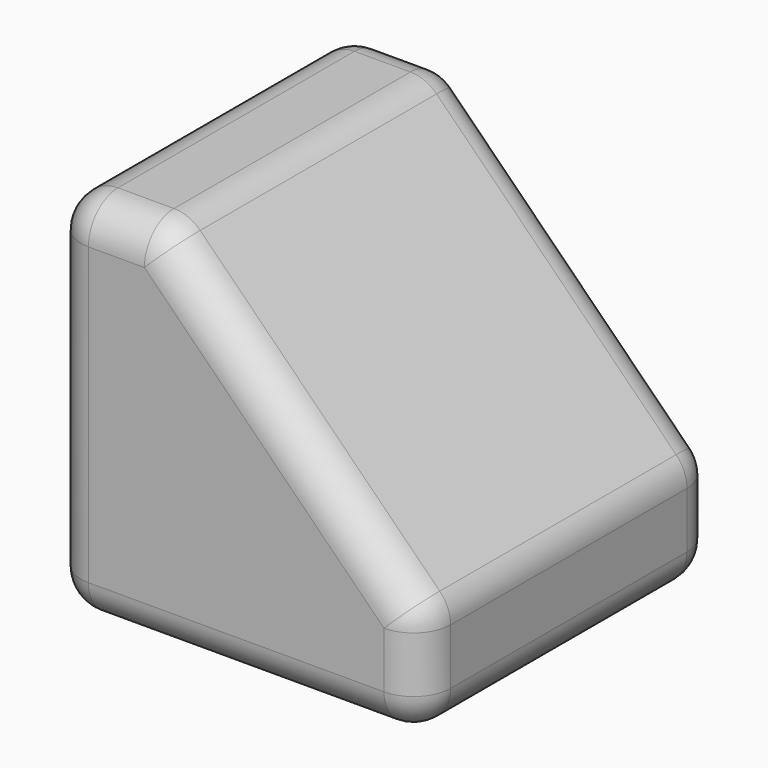
from build123d import *

# Parameters (mm, degrees)
F1_DEPTH = 25.4
F2_R     = 2.54


with BuildPart() as f1:
    # F0 (on Front) → F1 (new body)
    with BuildSketch(Plane.XZ):
        Polygon((-12.7, 12.7), (-12.7, -12.7), (12.7, -12.7), (12.7, -5.260512), (-5.260512, 12.7), align=None)
    extrude(amount=F1_DEPTH)

    # F2
    f2_edges = [f1.edges().sort_by_distance(p)[0] for p in [
        (-12.7, -12.7, 12.7),
        (12.7, -12.7, -5.260512),
        (-5.260512, -12.7, 12.7),
        (3.719744, 0, 3.719744),
        (3.719744, -25.4, 3.719744),
        (-8.980256, -25.4, 12.7),
        (-12.7, -25.4, 0),
        (0, -25.4, -12.7),
        (12.7, -25.4, -8.980256),
        (12.7, -12.7, -12.7),
        (12.7, 0, -8.980256),
        (-8.980256, 0, 12.7),
        (-12.7, 0, 0),
        (0, 0, -12.7),
        (-12.7, -12.7, -12.7),
    ]]
    fillet(f2_edges, radius=F2_R)


solid = f1.part
